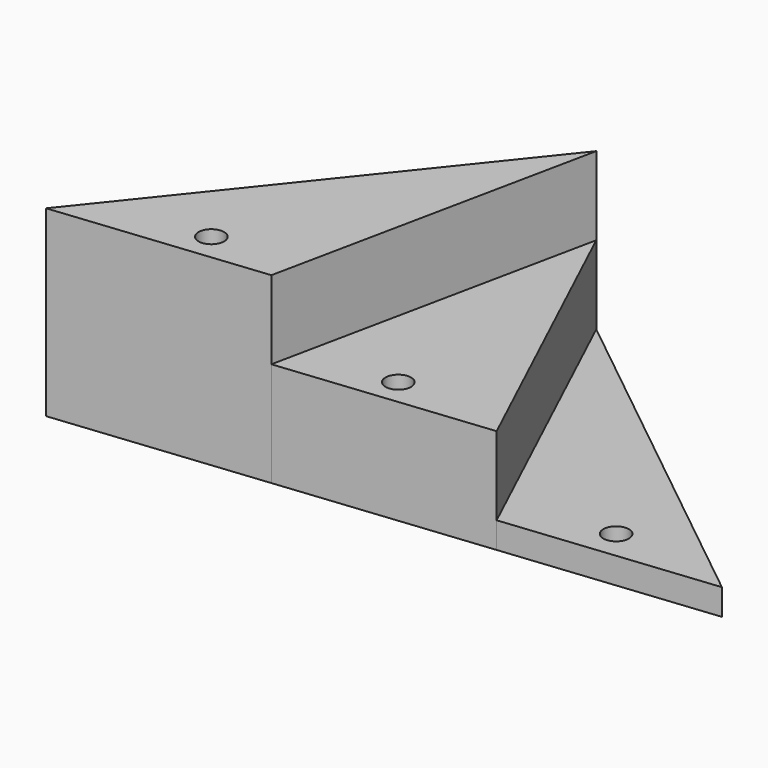
from build123d import *

# Parameters (mm, degrees)
F0_R     = 12.21157
F1_DEPTH = 175
F2_DEPTH = 25
F3_DEPTH = 100


with BuildPart() as f1:
    # F0 (on Top) → F1 (new body)
    with BuildSketch(Plane.XY):
        Polygon((-211.262774, -17.443784), (-147.143358, 290.769314), (-410.198446, -38.049573), align=None)
        with Locations((-285.118103, 3.135384)):
            Circle(F0_R, mode=Mode.SUBTRACT)
    extrude(amount=F1_DEPTH)


with BuildPart() as f2:
    # F0 (on Top) → F2 (new body)
    with BuildSketch(Plane.XY):
        Polygon((186.608569, 23.767795), (-147.143358, 290.769314), (-12.327103, 3.162005), align=None)
        with Locations((71.055464, 41.753434)):
            Circle(F0_R, mode=Mode.SUBTRACT)
    extrude(amount=F2_DEPTH)


with BuildPart() as f3:
    # F0 (on Top) → F3 (new body)
    with BuildSketch(Plane.XY):
        Polygon((-12.327103, 3.162005), (-147.143358, 290.769314), (-211.262774, -17.443784), align=None)
        with Locations((-119.194433, 19.170908)):
            Circle(F0_R, mode=Mode.SUBTRACT)
    extrude(amount=F3_DEPTH)


solid = Compound([f1.part, f2.part, f3.part])
